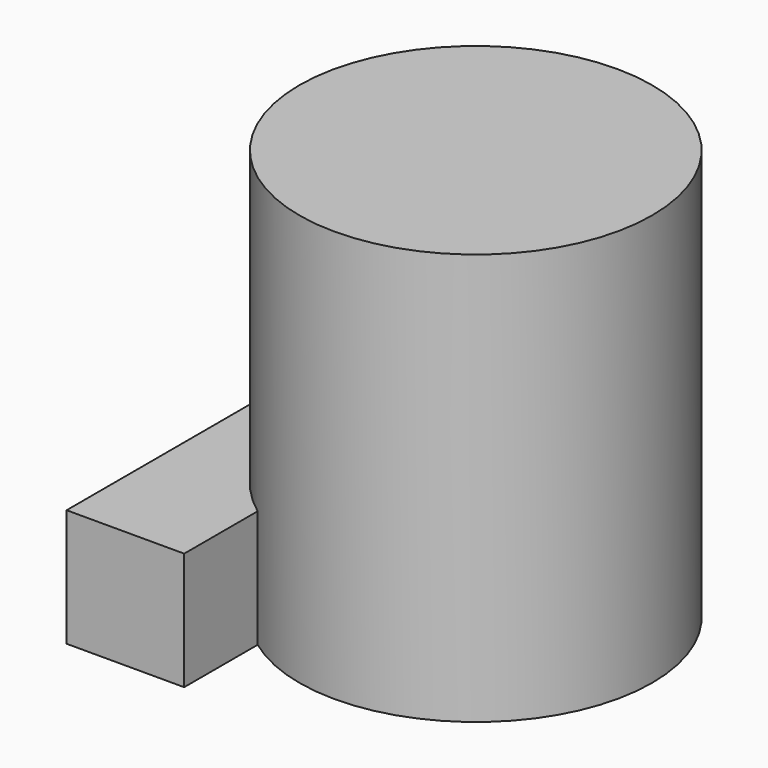
from build123d import *

# Parameters (mm, degrees)
F0_R     = 30
F1_DEPTH = 70
F2_W     = 20
F2_H     = 20
F3_DEPTH = 60


with BuildPart() as f1:
    # F0 (on Top) → F1 (new body)
    with BuildSketch(Plane.XY):
        with Locations((17.760798, -20.20311)):
            Circle(F0_R)
    extrude(amount=F1_DEPTH)

    # F2 (on Front) → F3 (join)
    with BuildSketch(Plane.XZ):
        with Locations((-10, 10)):
            Rectangle(F2_W, F2_H)
    extrude(amount=F3_DEPTH)


solid = f1.part
